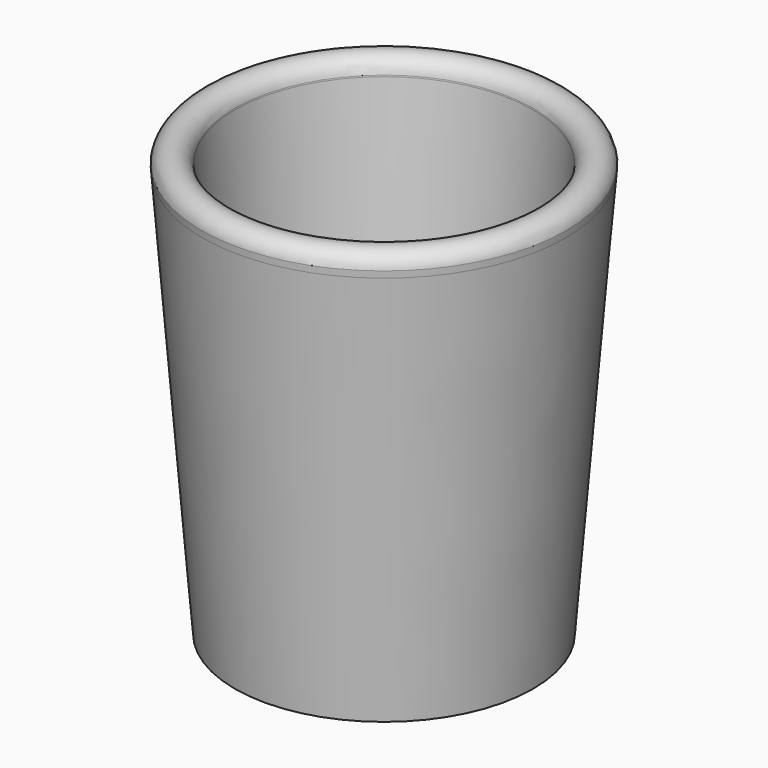
from build123d import *


with BuildPart() as f1:
    # F0 (on Front) → F1 (revolve)
    with BuildSketch(Plane.XZ):
        with BuildLine():
            Line((0, 2), (0, 0))
            Line((0, 0), (9, 0))
            Line((9, 0), (10.9678164715, 24.5977058939))
            Line((10.9678164715, 24.5977058939), (11, 25))
            Line((11, 25), (8.9936102074, 25))
            Line((8.9936102074, 25), (8.98694515, 24.9166867831))
            Line((8.98694515, 24.9166867831), (7.5217121184, 6.6012738886))
            ThreePointArc((7.5217121184, 6.6012738886), (5.9292702464, 3.3261987971), (2.5376357258, 2))
            Line((2.5376357258, 2), (0, 2))
        make_face()
        with BuildLine():
            Line((8.9936102074, 25), (11, 25))
            ThreePointArc((11, 25), (9.9968051037, 25.8884287672), (8.9936102074, 25))
        make_face()
    revolve(axis=Axis((0, 0, 12.5), (0, 0, 1)))


solid = f1.part
